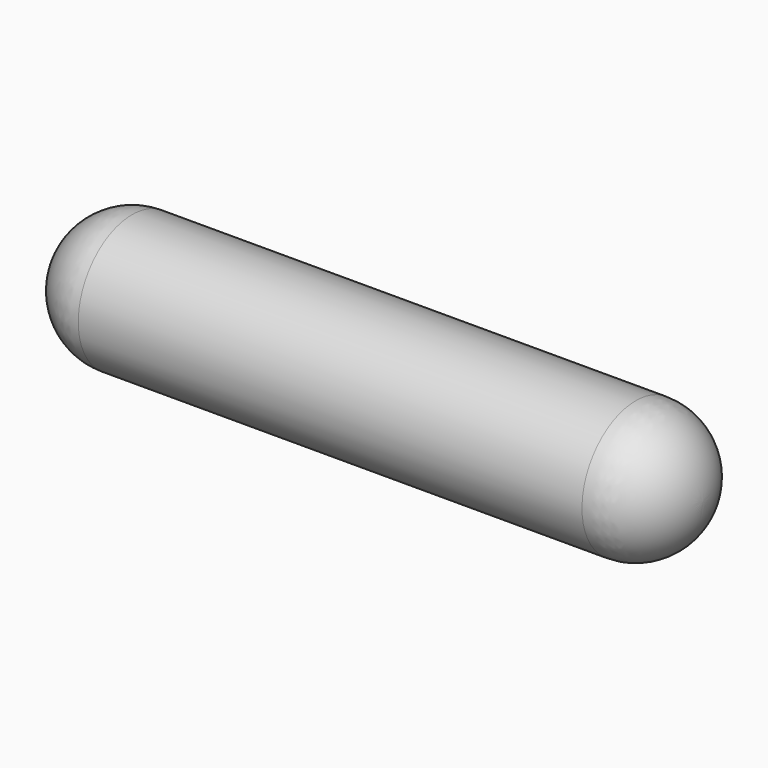
from build123d import *


with BuildPart() as f1:
    # F0 (on Front) → F1 (revolve)
    with BuildSketch(Plane.XZ):
        with BuildLine():
            Line((149.759844, 0), (-149.759844, 0))
            Line((-149.759844, 0), (-189.759844, 0))
            ThreePointArc((-189.759844, 0), (-178.044115, -28.284271), (-149.759844, -40))
            Line((-149.759844, -40), (149.759844, -40))
            ThreePointArc((149.759844, -40), (178.044115, -28.284271), (189.759844, 0))
            Line((189.759844, 0), (149.759844, 0))
        make_face()
    revolve(axis=Axis((-180.934452, 0, 0), (1, 0, 0)))


solid = f1.part
